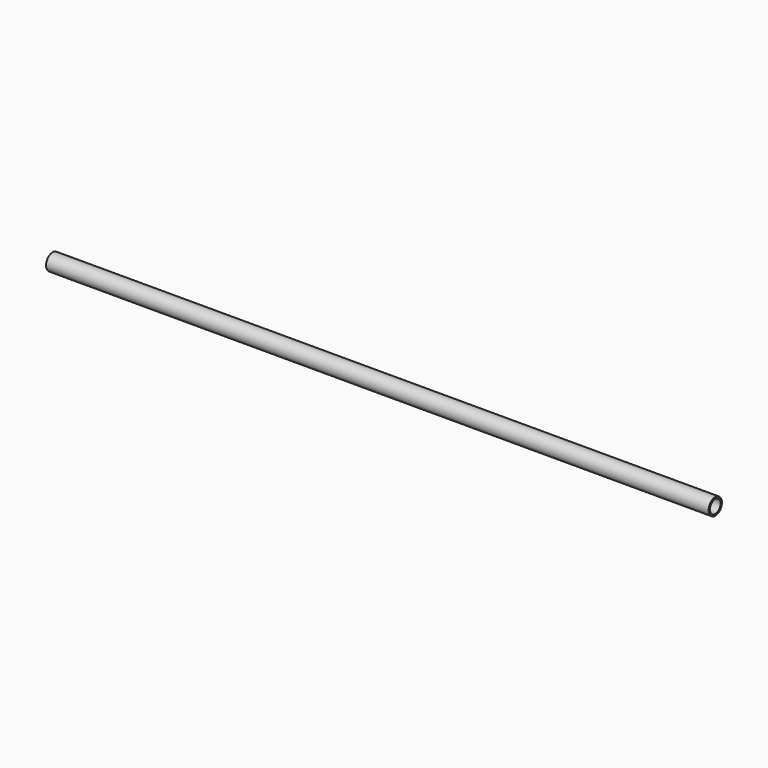
from build123d import *

# Parameters (mm, degrees)
F1_R   = 10
F1_R_2 = 8


with BuildPart() as f2:
    # F2: sweep along a path in F0
    with BuildLine(Plane.XY) as f2_path:
        Line((-342.857143, 0), (457.142857, 0))
    # F1 (on Right) → F2 (sweep)
    with BuildSketch(Plane.YZ):
        Circle(F1_R)
        Circle(F1_R_2, mode=Mode.SUBTRACT)
    sweep(path=f2_path.line)


solid = f2.part
